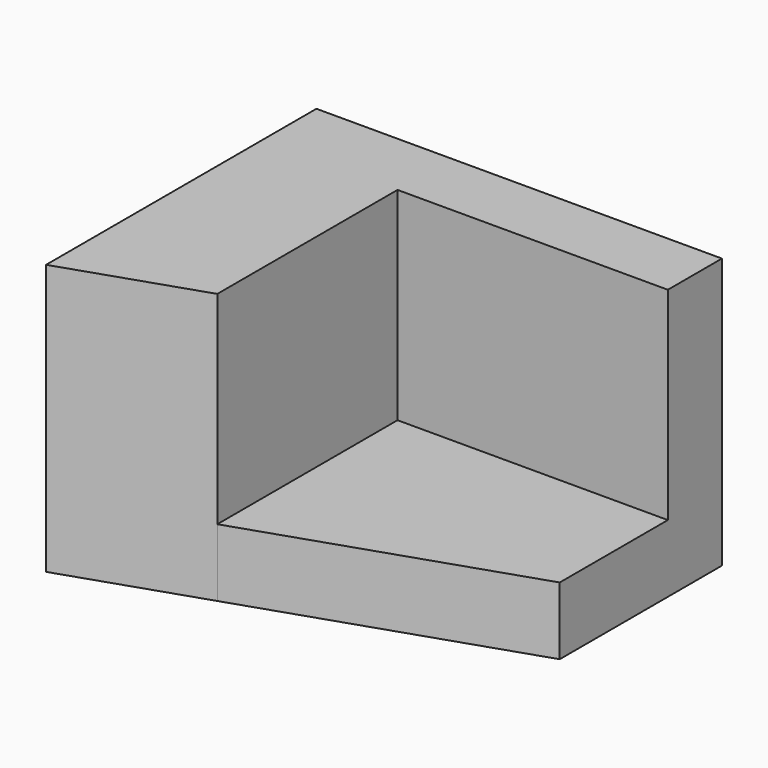
from build123d import *

# Parameters (mm, degrees)
F0_W     = 50.8
F0_H     = 38.1
F1_DEPTH = 63.5
F3_DEPTH = 50.8
F4_DEPTH = 38.1


with BuildPart() as f1:
    # F0 (on Front) → F1 (new body)
    with BuildSketch(Plane.XZ):
        Polygon((0, 50.8), (0, 0), (76.2, 0), (76.2, 12.7), (25.4, 12.7), (25.4, 50.8), align=None)
        with Locations((50.8, 31.75)):
            Rectangle(F0_W, F0_H)
    extrude(amount=-F1_DEPTH)

    # F2 (on face) → F3 (cut)
    with BuildSketch(Plane.XY.offset(50.8)):
        Polygon((25.4, 8.466667), (0, 0), (76.2, 0), (76.2, 25.4), align=None)
    extrude(amount=-F3_DEPTH, mode=Mode.SUBTRACT)

    # F2 (on face) → F4 (cut)
    with BuildSketch(Plane.XY.offset(50.8)):
        Polygon((25.4, 50.8), (25.4, 8.466667), (76.2, 25.4), (76.2, 50.8), align=None)
    extrude(amount=-F4_DEPTH, mode=Mode.SUBTRACT)


solid = f1.part
